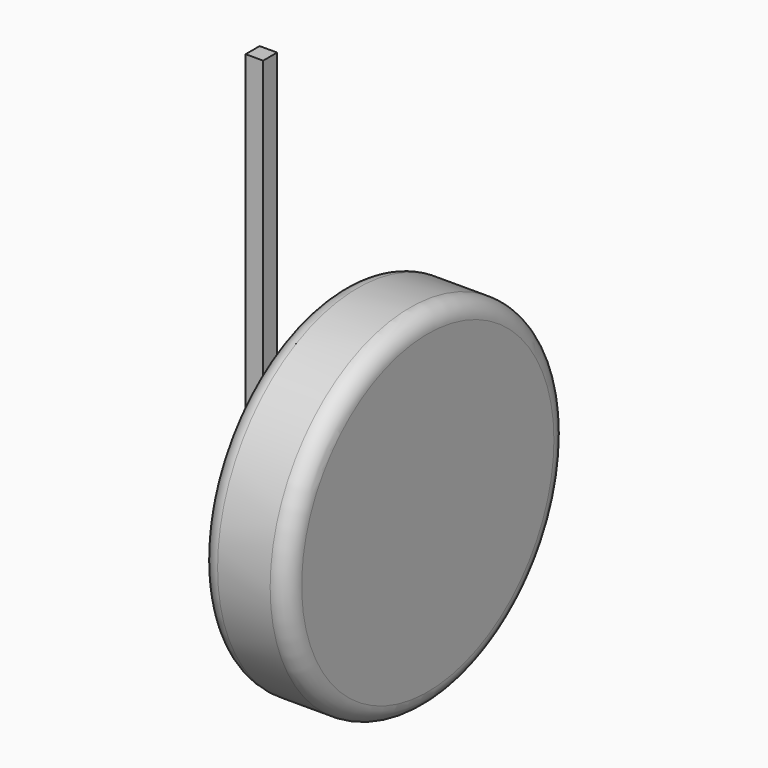
from build123d import *

# Parameters (mm, degrees)
F0_R     = 100
F1_DEPTH = 50
F2_R     = 10
F3_W     = 10
F3_H     = 10
F4_DEPTH = 50
F5_W     = 10
F5_H     = 10
F6_DEPTH = 195


with BuildPart() as f1:
    # F0 (on Right) → F1 (new body)
    with BuildSketch(Plane.YZ):
        Circle(F0_R)
    extrude(amount=F1_DEPTH)

    # F2
    f2_edges = [f1.edges().sort_by_distance(p)[0] for p in [
        (50, -100, 0),
        (0, -100, 0),
    ]]
    fillet(f2_edges, radius=F2_R)

    # F3 (on face) → F4 (join)
    with BuildSketch(Plane(origin=(0, 0, 0), x_dir=(0, -1, 0), z_dir=(-1, 0, 0))):
        Rectangle(F3_W, F3_H)
    extrude(amount=F4_DEPTH)

    # F5 (on face) → F6 (join)
    with BuildSketch(Plane.XY.offset(5)):
        with Locations((-45, 0)):
            Rectangle(F5_W, F5_H)
    extrude(amount=F6_DEPTH)


solid = f1.part
